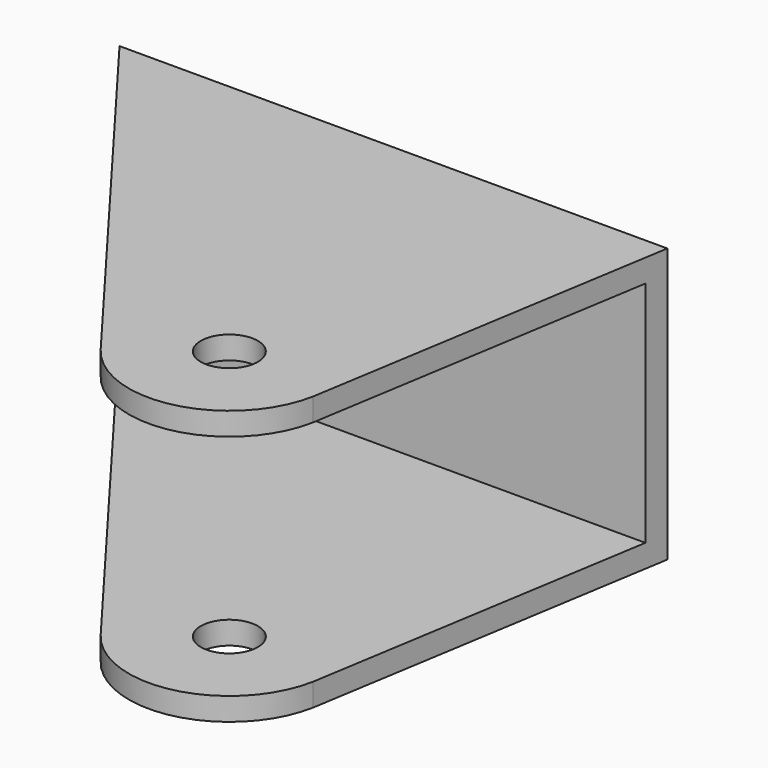
from build123d import *

# Parameters (mm, degrees)
F1_DEPTH = 30.48
F2_T     = -2.54
F4_D     = 6.35


with BuildPart() as f1:
    # F0 (on Top) → F1 (new body)
    with BuildSketch(Plane.XY):
        with BuildLine():
            Line((28.424608, 4.662237), (35.055646, 45.632264))
            Line((35.055646, 45.632264), (-25.904354, 45.632264))
            Line((-25.904354, 45.632264), (8.502317, 0))
            ThreePointArc((8.502317, 0), (19.9818, -4.156915), (28.424608, 4.662237))
        make_face()
    extrude(amount=F1_DEPTH)

    # F2
    f2_openings = [f1.faces().sort_by_distance(p)[0] for p in [
        (19.9818, -4.156915, 15.24),
        (31.740127, 25.14725, 15.24),
        (-8.701018, 22.816132, 15.24),
    ]]
    offset(amount=F2_T, openings=f2_openings)

    # F4 (through all)
    with Locations(Plane.XY.offset(30.48)):
        with Locations((17.433136, 6.733826)):
            Hole(F4_D / 2)


solid = f1.part
